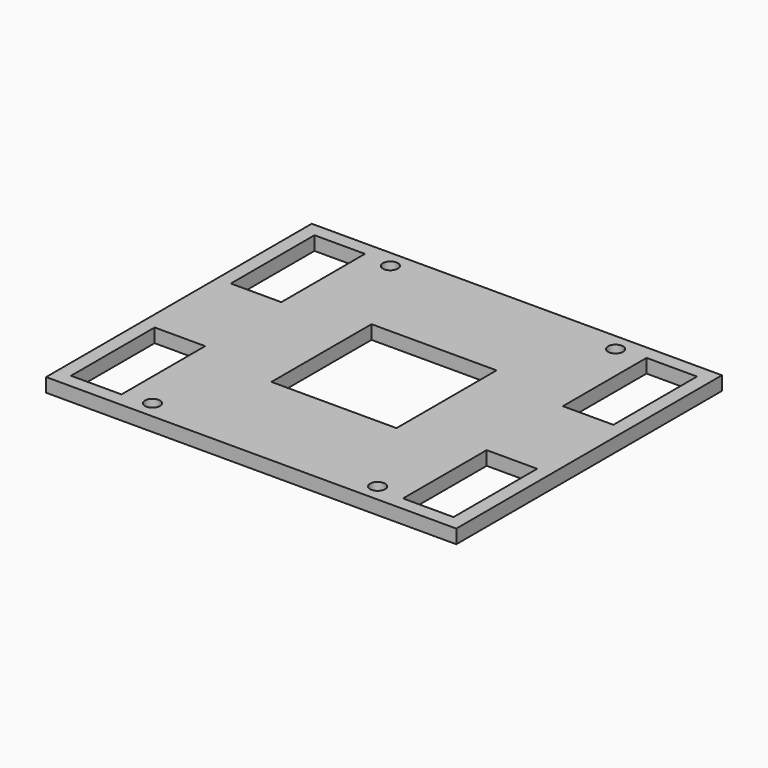
from build123d import *

# Parameters (mm, degrees)
F0_W     = 94.1376832
F0_H     = 76.2
F0_W_2   = 11.5876832
F0_H_2   = 24
F0_W_3   = 28.6999934
F0_H_3   = 28.6999934
F1_DEPTH = 3.175
F2_R     = 1.7272
F3_DEPTH = 3.175


with BuildPart() as f1:
    # F0 (on Top) → F1 (new body)
    with BuildSketch(Plane.XY):
        with Locations((47.0688416, -38.1)):
            Rectangle(F0_W, F0_H)
        with Locations((8.9688416, -61.025)):
            Rectangle(F0_W_2, F0_H_2, mode=Mode.SUBTRACT)
        with Locations((85.1688416, -61.025)):
            Rectangle(F0_W_2, F0_H_2, mode=Mode.SUBTRACT)
        with Locations((47.0688416, -38.1)):
            Rectangle(F0_W_3, F0_H_3, mode=Mode.SUBTRACT)
        with Locations((8.9688416, -15.175)):
            Rectangle(F0_W_2, F0_H_2, mode=Mode.SUBTRACT)
        with Locations((85.1688416, -15.175)):
            Rectangle(F0_W_2, F0_H_2, mode=Mode.SUBTRACT)
    extrude(amount=F1_DEPTH)

    # F2 (on face) → F3 (cut, through all)
    with BuildSketch(Plane.XY.offset(3.175)):
        with Locations((21.231352, -3.96875)):
            Circle(F2_R)
        with Locations((72.9063312, -3.96875)):
            Circle(F2_R)
        with Locations((72.9063312, -72.23125)):
            Circle(F2_R)
        with Locations((21.231352, -72.23125)):
            Circle(F2_R)
    extrude(amount=-F3_DEPTH, mode=Mode.SUBTRACT)


solid = f1.part
